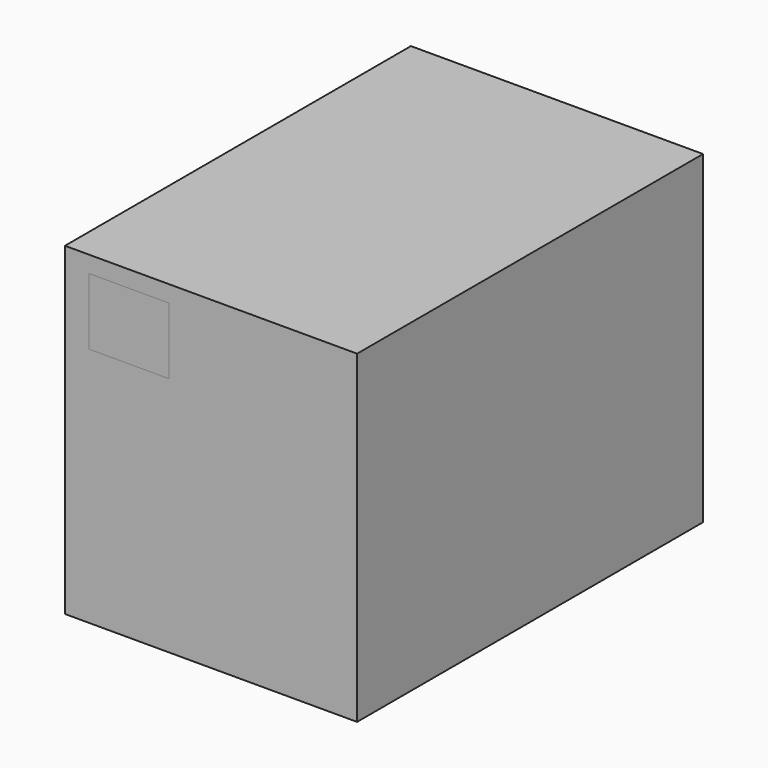
from build123d import *

# Parameters (mm, degrees)
F0_W     = 85.802584
F0_H     = 95.215522
F1_DEPTH = 127
F2_W     = 23.532353
F2_H     = 19.549951
F3_DEPTH = 127
F4_DEPTH = 25.4


with BuildPart() as f1:
    # F0 (on Front) → F1 (new body)
    with BuildSketch(Plane.XZ):
        Rectangle(F0_W, F0_H)
    extrude(amount=F1_DEPTH)

    # F2 (on face) → F3 (cut)
    with BuildSketch(Plane.XZ.offset(127)):
        with Locations((-24.075407, 32.945293)):
            Rectangle(F2_W, F2_H)
    extrude(amount=-F3_DEPTH, mode=Mode.SUBTRACT)


with BuildPart() as f4:
    # F2 (on face) → F4 (new body)
    with BuildSketch(Plane.XZ.offset(127)):
        with Locations((-24.075407, 32.945293)):
            Rectangle(F2_W, F2_H)
    extrude(amount=-F4_DEPTH)


solid = Compound([f1.part, f4.part])
